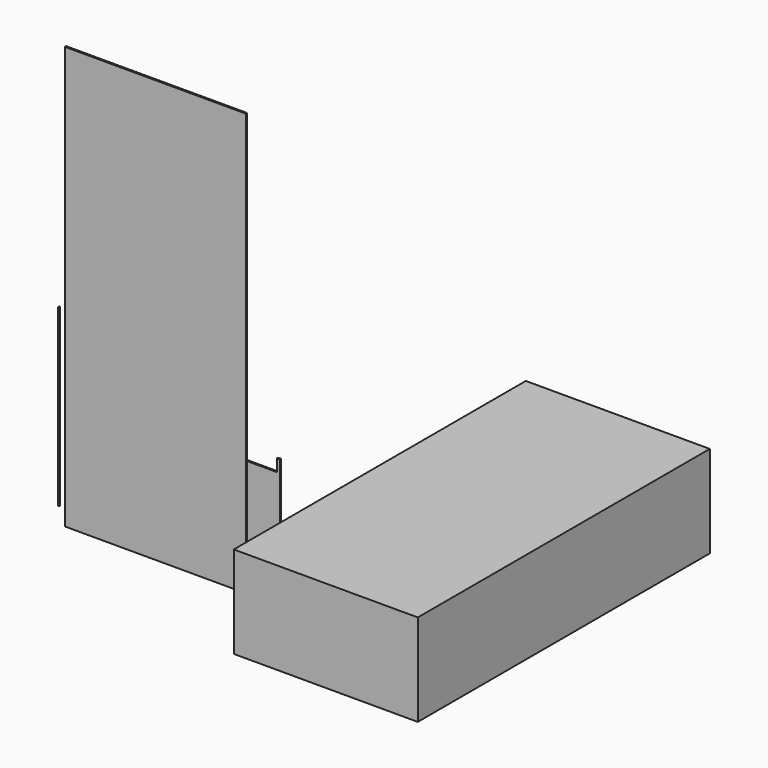
from build123d import *

# Parameters (mm, degrees)
F0_W     = 300
F0_H     = 2.5
F1_DEPTH = 170
F2_W     = 290
F2_H     = 20
F3_DEPTH = 25
F0_R     = 1.25
F4_DEPTH = 290
F5_DEPTH = 290
F6_DEPTH = 700
F0_W_2   = 305
F0_H_2   = 605
F9_DEPTH = 152.5
F10_T    = -2.5


with BuildPart() as f1:
    # F0 (on Top) → F1 (new body)
    with BuildSketch(Plane.XY):
        with Locations((134.453777, 45.137415)):
            Rectangle(F0_W, F0_H)
    extrude(amount=F1_DEPTH)

    # F2 (on face) → F3 (cut)
    with BuildSketch(Plane.XZ.offset(-43.887415)):
        with Locations((134.453777, 160)):
            Rectangle(F2_W, F2_H)
    extrude(amount=-F3_DEPTH, mode=Mode.SUBTRACT)


with BuildPart() as f4:
    # F0 (on Top) → F4 (new body)
    with BuildSketch(Plane.XY):
        with Locations((-61.566853, 19.276489)):
            Circle(F0_R)
    extrude(amount=F4_DEPTH)


with BuildPart() as f5:
    # F0 (on Top) → F5 (new body)
    with BuildSketch(Plane.XY):
        with BuildLine():
            ThreePointArc((-63.816853, 36.054391), (-61.566853, 33.804391), (-59.316853, 36.054391))
            ThreePointArc((-59.316853, 36.054391), (-60.506193, 38.038705), (-62.816853, 37.92522))
            ThreePointArc((-62.816853, 37.92522), (-63.551167, 37.115052), (-63.816853, 36.054391))
        make_face()
        with Locations((-61.566853, 36.054391)):
            Circle(F0_R, mode=Mode.SUBTRACT)
        with BuildLine():
            ThreePointArc((-63.816853, 36.054391), (-63.551167, 37.115052), (-62.816853, 37.92522))
            Line((-62.816853, 37.92522), (-62.816853, 47.92522))
            Line((-62.816853, 47.92522), (-63.816853, 47.92522))
            Line((-63.816853, 47.92522), (-63.816853, 36.054391))
        make_face()
    extrude(amount=F5_DEPTH)


with BuildPart() as f6:
    # F0 (on Top) → F6 (new body)
    with BuildSketch(Plane.XY):
        with Locations((130.404871, -20.34846)):
            Rectangle(F0_W, F0_H)
    extrude(amount=F6_DEPTH)


with BuildPart() as f9:
    # F0 (on Top) → F9 (new body)
    with BuildSketch(Plane.XY):
        with Locations((527.024353, 138.480691)):
            Rectangle(F0_W_2, F0_H_2)
    extrude(amount=F9_DEPTH)

    # F10
    f10_openings = [f9.faces().sort_by_distance(p)[0] for p in [
        (527.024353, 138.480691, 0),
    ]]
    offset(amount=F10_T, openings=f10_openings)


solid = Compound([f1.part, f4.part, f5.part, f6.part, f9.part])
